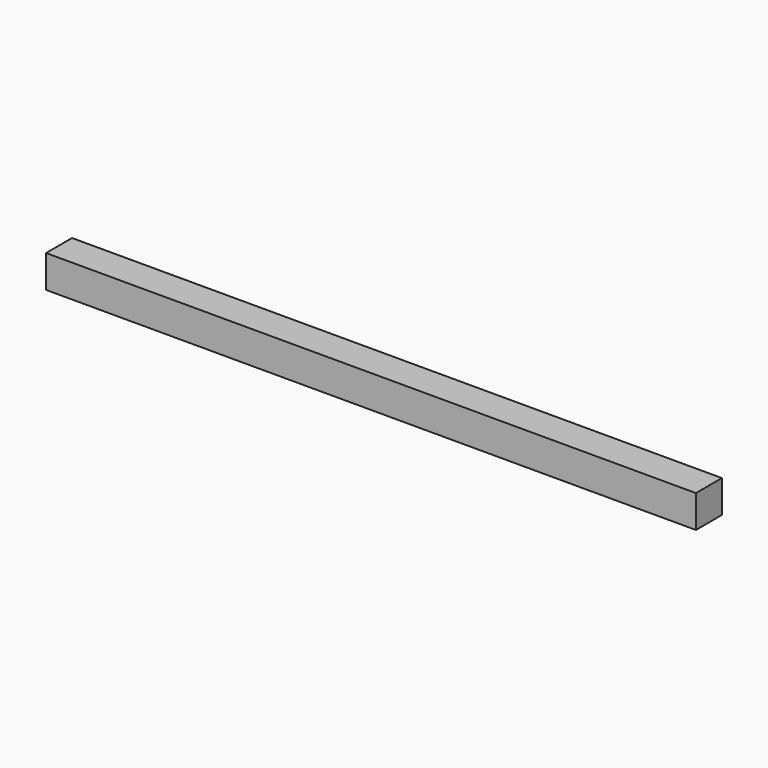
from build123d import *

# Parameters (mm, degrees)
SKETCH_W  = 8
SKETCH_H  = 8
PAD_DEPTH = 160


with BuildPart() as part:
    # Sketch → Pad (new body)
    with BuildSketch(Plane.YZ):
        Rectangle(SKETCH_W, SKETCH_H)
    extrude(amount=PAD_DEPTH)


solid = part.part
